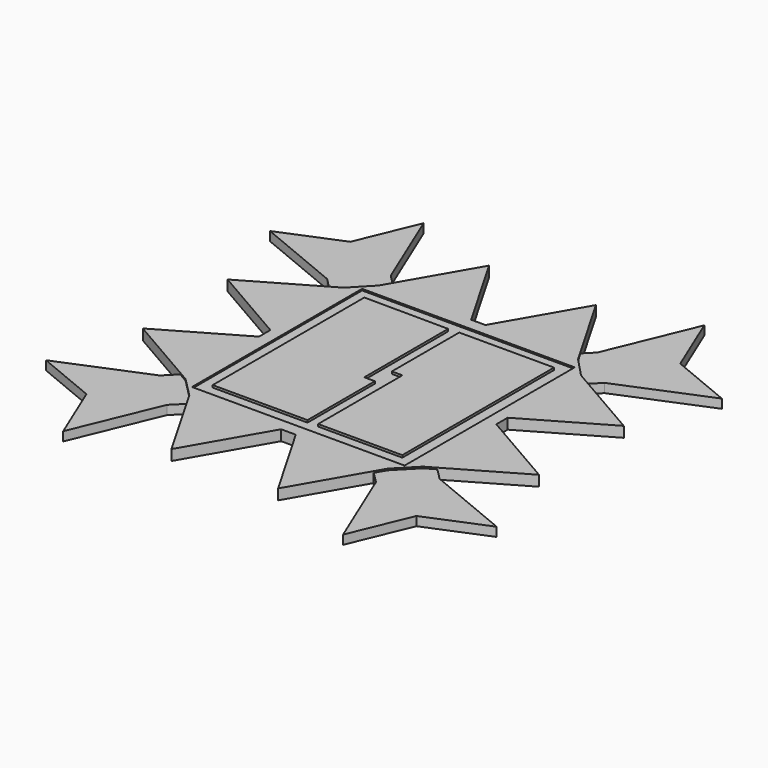
from build123d import *

# Parameters (mm, degrees)
F1_DEPTH = 3.81
F3_DEPTH = 3.556
F5_DEPTH = 3.048


with BuildPart() as f1:
    # F0 (on Top) → F1 (new body)
    with BuildSketch(Plane.XY):
        Polygon((32.022782, -32.022782), (32.022782, 32.022782), (0, 32.022782), (0, 3.577671), (3.577671, 3.577671), (3.577671, -3.577671), (3.577671, -32.022782), align=None)
        Polygon((-32.022782, 32.022782), (-32.022782, -32.022782), (0, -32.022782), (0, -3.577671), (-3.577671, -3.577671), (-3.577671, 3.577671), (-3.577671, 31.822301), align=None)
    extrude(amount=F1_DEPTH)


with BuildPart() as f3:
    # F2 (on Top) → F3 (new body)
    with BuildSketch(Plane.XY):
        Polygon((-17.976414, -66.965935), (-2.466899, -40.066283), (0, -40.066283), (0.003342, -35.910327), (-35.910327, -35.910327), (-36.762996, -36.737791), (-33.459709, -40.066283), align=None)
        Polygon((0.003342, -35.910327), (0, -40.066283), (2.473583, -40.066283), (18.012935, -66.94485), (33.510293, -40.066283), (36.788288, -36.716752), (35.910327, -35.910327), align=None)
        Polygon((35.910327, 0), (35.910327, -35.910327), (36.788288, -36.716752), (40.066283, -33.367221), (66.885166, -17.883332), (40.066283, -2.399442), (40.066283, 0), align=None)
        Polygon((-36.762996, -36.737791), (-35.910327, -35.910327), (-35.910327, 0), (-40.066283, 0), (-40.066283, -2.399442), (-66.921607, -17.904371), (-40.066283, -33.409299), align=None)
        Polygon((35.910327, 35.910327), (35.910327, 0), (40.066283, 0), (40.066283, 2.399442), (66.885166, 17.883332), (40.066283, 33.367221), (36.879068, 36.716752), align=None)
        Polygon((-40.066283, 0), (-35.910327, 0), (-35.910327, 35.910327), (-36.879068, 36.737791), (-40.066283, 33.409299), (-66.921607, 17.904371), (-40.066283, 2.399442), align=None)
        Polygon((0, 35.910327), (35.910327, 35.910327), (36.879068, 36.716752), (33.691853, 40.066283), (18.045648, 67.166306), (2.399442, 40.066283), (0, 40.066283), align=None)
        Polygon((-36.879068, 36.737791), (-35.910327, 35.910327), (0, 35.910327), (0, 40.066283), (-2.399442, 40.066283), (-18.045648, 67.166306), (-33.691853, 40.066283), align=None)
    extrude(amount=F3_DEPTH)


with BuildPart() as f5:
    # F4 (on Top) → F5 (new body)
    with BuildSketch(Plane.XY):
        Polygon((37.576416, 25.29111), (46.983489, 34.654027), (34.654027, 46.983489), (25.868097, 38.156123), (-28.565463, 40.508624), (-35.313485, 47.256646), (-47.256646, 35.313485), (-40.508624, 28.565463), (-37.576416, -25.587602), (-47.256646, -35.313485), (-35.313485, -47.256646), (-25.587602, -37.576416), (25.633255, -37.576416), (35.313485, -47.256646), (47.256646, -35.313485), (37.576416, -25.633255), align=None)
        Polygon((34.654027, 46.983489), (46.983489, 34.654027), (76.749444, 46.983489), (55.701735, 55.701735), (46.983489, 76.749444), align=None)
        Polygon((76.089986, -47.256646), (47.256646, -35.313485), (35.313485, -47.256646), (47.256646, -76.089986), (55.701735, -55.701735), align=None)
        Polygon((-47.256646, 35.313485), (-35.313485, 47.256646), (-47.256646, 76.089986), (-55.701735, 55.701735), (-76.089986, 47.256646), align=None)
        Polygon((-47.256646, -76.089986), (-35.313485, -47.256646), (-47.256646, -35.313485), (-76.089986, -47.256646), (-55.701735, -55.701735), align=None)
    extrude(amount=F5_DEPTH)


solid = Compound([f1.part, f3.part, f5.part])
